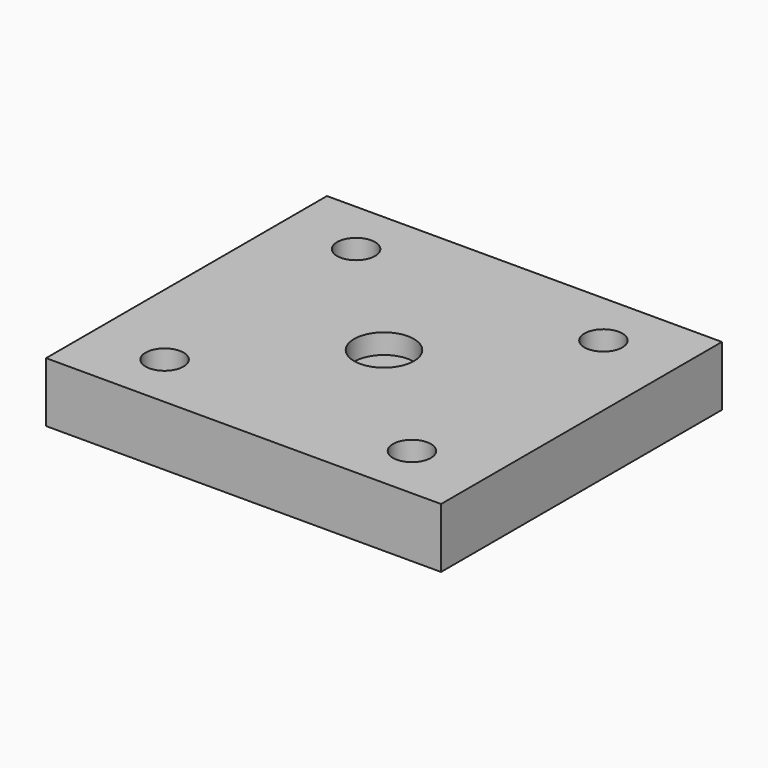
from build123d import *

# Parameters (mm, degrees)
F0_R     = 7.5
F1_DEPTH = 10
F0_W     = 99
F0_H     = 88
F0_R_2   = 4.75
F2_DEPTH = 15
F3_R     = 25
F3_R_2   = 7.5
F4_DEPTH = 3


with BuildPart() as f1:
    # F0 (on Top) → F1 (new body)
    with BuildSketch(Plane.XY):
        Circle(F0_R)
    extrude(amount=F1_DEPTH)

    # F0 (on Top) → F2 (join)
    with BuildSketch(Plane.XY):
        Rectangle(F0_W, F0_H)
        with Locations((-31, -30)):
            Circle(F0_R_2, mode=Mode.SUBTRACT)
        with Locations((31, -30)):
            Circle(F0_R_2, mode=Mode.SUBTRACT)
        with Locations((-31, 30)):
            Circle(F0_R_2, mode=Mode.SUBTRACT)
        Circle(F0_R, mode=Mode.SUBTRACT)
        with Locations((31, 30)):
            Circle(F0_R_2, mode=Mode.SUBTRACT)
    extrude(amount=F2_DEPTH)

    # F3 (on face) + F0 (on Top) → F4 (cut)
    with BuildSketch(Plane.XY):
        Circle(F3_R)
        Circle(F3_R_2, mode=Mode.SUBTRACT)
    with BuildSketch(Plane.XY):
        Circle(F0_R)
    extrude(amount=F4_DEPTH, mode=Mode.SUBTRACT)


solid = f1.part
